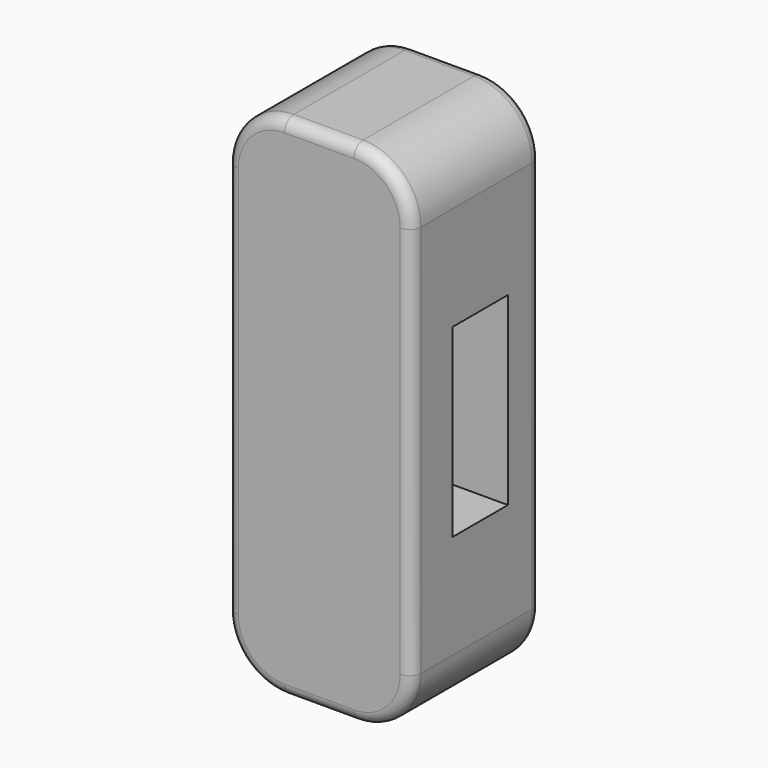
from build123d import *

# Parameters (mm, degrees)
F1_DEPTH = 44.45
F2_R     = 3.175
F3_W     = 19.05
F3_H     = 50.8
F4_DEPTH = 127


with BuildPart() as f1:
    # F0 (on Front) → F1 (new body)
    with BuildSketch(Plane.XZ):
        with BuildLine():
            Line((9.525, 69.85), (-9.525, 69.85))
            ThreePointArc((-9.525, 69.85), (-20.75032, 65.20032), (-25.4, 53.975))
            Line((-25.4, 53.975), (-25.4, -53.975))
            ThreePointArc((-25.4, -53.975), (-20.75032, -65.20032), (-9.525, -69.85))
            Line((-9.525, -69.85), (9.525, -69.85))
            ThreePointArc((9.525, -69.85), (20.75032, -65.20032), (25.4, -53.975))
            Line((25.4, -53.975), (25.4, 53.975))
            ThreePointArc((25.4, 53.975), (20.75032, 65.20032), (9.525, 69.85))
        make_face()
    extrude(amount=F1_DEPTH)

    # F2
    f2_edges = [f1.edges().sort_by_distance(p)[0] for p in [
        (-25.4, -44.45, 0),
        (25.4, 0, 0),
    ]]
    fillet(f2_edges, radius=F2_R)

    # F3 (on Right) → F4 (cut, symmetric)
    with BuildSketch(Plane.YZ):
        with Locations((-20.957332, 0)):
            Rectangle(F3_W, F3_H)
    extrude(amount=F4_DEPTH, both=True, mode=Mode.SUBTRACT)


solid = f1.part
